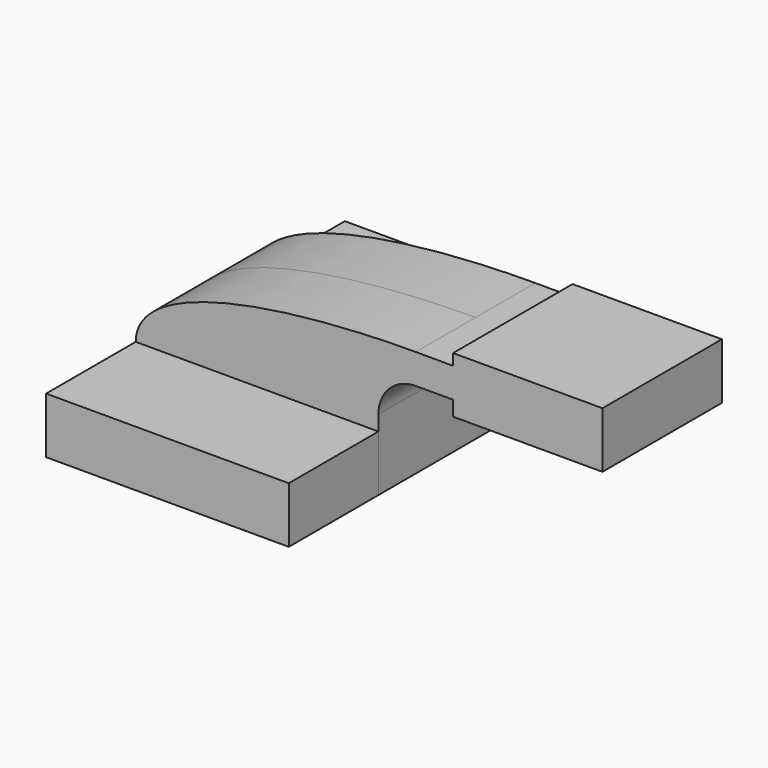
from build123d import *

# Parameters (mm, degrees)
F1_DEPTH = 63.5
F0_W     = 12.7
F0_H     = 10.16
F0_H_2   = 3.81
F0_H_3   = 5.08
F2_DEPTH = 25.4


with BuildPart() as f1:
    # F0 (on Front) → F1 (new body, symmetric)
    with BuildSketch(Plane.XZ):
        Polygon((-41.275, 9.525), (-41.275, -9.525), (41.275, -9.525), (41.275, 9.525), (31.115, 9.525), align=None)
    extrude(amount=F1_DEPTH, both=True)


with BuildPart() as f2:
    # F0 (on Front) → F2 (new body, symmetric)
    with BuildSketch(Plane.XZ):
        Polygon((-41.275, 9.525), (-41.275, -9.525), (41.275, -9.525), (41.275, 9.525), (31.115, 9.525), align=None)
        with BuildLine():
            add(Edge.make_bspline(
                [(-41.275, 9.525), (-41.0398244858, 30.8460247099), (13.4597411379, 37.5135232091), (53.975, 37.465)],
                knots=[0, 0, 0, 0, 99.2633169907, 99.2633169907, 99.2633169907, 99.2633169907], degree=3))
            Line((-41.275, 9.525), (31.115, 9.525))
            Line((31.115, 9.525), (31.115, 14.605))
            ThreePointArc((31.115, 14.605), (37.8105389821, 30.7694610179), (53.975, 37.465))
        make_face()
        with BuildLine():
            Line((31.115, 9.525), (41.275, 9.525))
            Line((41.275, 9.525), (41.275, 14.605))
            ThreePointArc((41.275, 14.605), (44.9947438789, 23.5852561211), (53.975, 27.305))
            Line((53.975, 27.305), (66.675, 27.305))
            Line((66.675, 27.305), (66.675, 37.465))
            Line((66.675, 37.465), (53.975, 37.465))
            ThreePointArc((53.975, 37.465), (37.8105389821, 30.7694610179), (31.115, 14.605))
            Line((31.115, 14.605), (31.115, 9.525))
        make_face()
        with Locations((73.025, 32.385)):
            Rectangle(F0_W, F0_H)
        with Locations((73.025, 39.37)):
            Rectangle(F0_W, F0_H_2)
        with Locations((73.025, 24.765)):
            Rectangle(F0_W, F0_H_3)
        Polygon((79.375, 41.275), (79.375, 37.465), (79.375, 27.305), (79.375, 22.225), (117.475, 22.225), (117.475, 41.275), align=None)
    extrude(amount=F2_DEPTH, both=True)


solid = Compound([f1.part, f2.part])
